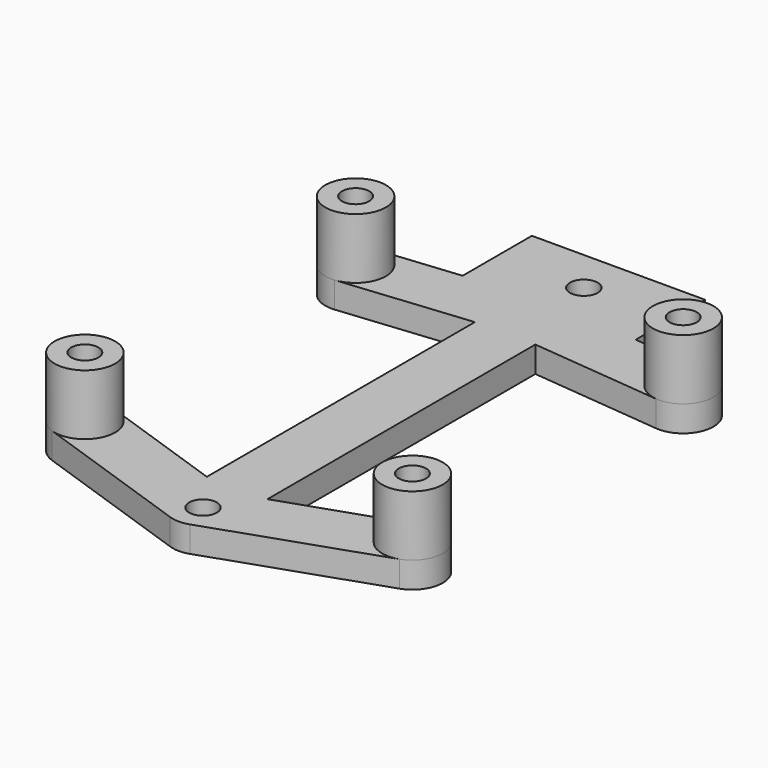
from build123d import *

# Parameters (mm, degrees)
SKETCH_R      = 1.575
SKETCH_R_2    = 1.6
PAD_DEPTH     = 3
SKETCH001_R   = 3.5
SKETCH001_R_2 = 1.575
PAD001_DEPTH  = 7


with BuildPart() as part:
    # Sketch → Pad (new body)
    with BuildSketch(Plane.XY):
        with BuildLine():
            Line((-10, 8.5), (10, 8.5))
            Line((10, 8.5), (10, -1.5))
            Line((10, -1.5), (19.3418018487, -2.4167297699))
            ThreePointArc((18.6581766844, -9.3832681236), (22.4832691769, -6.2418125822), (19.3418018487, -2.4167297699))
            Line((18.6581766844, -9.3832681236), (3.5183762437, -7.897569112))
            Line((3.5183762437, -7.897569112), (3.5183762437, -46.5971976167))
            Line((3.5183762437, -46.5971976167), (17.867093033, -41.6884260835))
            ThreePointArc((20.1329069981, -48.3115739058), (22.3115739111, -43.8670930175), (17.867093033, -41.6884260835))
            Line((1.1329067211, -54.8115740006), (20.1329069981, -48.3115739058))
            ThreePointArc((-1.1409673211, -54.80880546), (-0.0042613991, -54.9999974058), (1.1329067211, -54.8115740006))
            Line((-19.9909670183, -48.3088055644), (-1.1409673211, -54.80880546))
            ThreePointArc((-17.7090326253, -41.6911945585), (-22.158805503, -43.8590328035), (-19.9909670183, -48.3088055644))
            Line((-3.4816237563, -46.5971976167), (-17.7090326253, -41.6911945585))
            Line((-3.4816237563, -7.8846304044), (-3.4816237563, -46.5971976167))
            Line((-3.4816237563, -7.8846304044), (-18.5026576912, -9.3827221136))
            ThreePointArc((-19.1973406361, -2.4172777196), (-22.332722197, -6.2473414725), (-18.5026576912, -9.3827221136))
            Line((-10, -1.5), (-19.1973406361, -2.4172777196))
            Line((-10, 8.5), (-10, -1.5))
        make_face()
        with Locations((-18.85, -45)):
            Circle(SKETCH_R, mode=Mode.SUBTRACT)
        with Locations((19, -45)):
            Circle(SKETCH_R, mode=Mode.SUBTRACT)
        with Locations((0, -51.5)):
            Circle(SKETCH_R_2, mode=Mode.SUBTRACT)
        with Locations((0, 3.5)):
            Circle(SKETCH_R_2, mode=Mode.SUBTRACT)
        with Locations((-18.85, -5.9)):
            Circle(SKETCH_R, mode=Mode.SUBTRACT)
        with Locations((19, -5.9)):
            Circle(SKETCH_R, mode=Mode.SUBTRACT)
    extrude(amount=PAD_DEPTH)

    # Sketch001 → Pad001 (new body)
    with BuildSketch(Plane.XY.offset(3)):
        with Locations((-18.85, -5.9)):
            Circle(SKETCH001_R)
        with Locations((-18.85, -5.9)):
            Circle(SKETCH001_R_2, mode=Mode.SUBTRACT)
        with Locations((19, -5.9)):
            Circle(SKETCH001_R)
        with Locations((19, -5.9)):
            Circle(SKETCH001_R_2, mode=Mode.SUBTRACT)
        with Locations((19, -45)):
            Circle(SKETCH001_R)
        with Locations((19, -45)):
            Circle(SKETCH001_R_2, mode=Mode.SUBTRACT)
        with Locations((-18.85, -45)):
            Circle(SKETCH001_R)
        with Locations((-18.85, -45)):
            Circle(SKETCH001_R_2, mode=Mode.SUBTRACT)
    extrude(amount=PAD001_DEPTH)


solid = part.part
